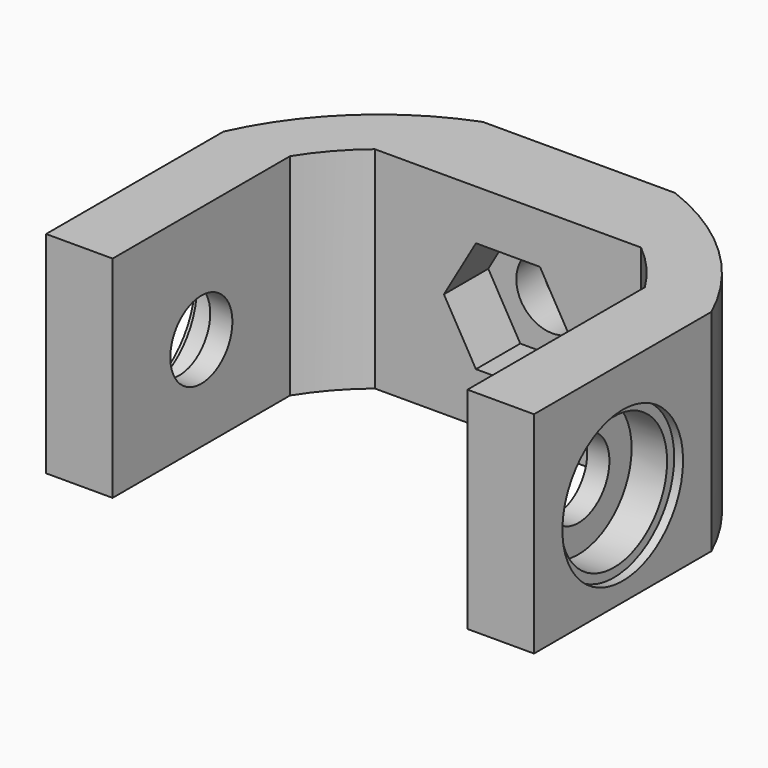
from build123d import *

# Parameters (mm, degrees)
F0_W      = 20
F0_H      = 19
F1_DEPTH  = 6
F2_R      = 6.8
F3_DEPTH  = 0.8
F4_R      = 6
F5_DEPTH  = 3.2
F6_R      = 3.5
F7_DEPTH  = 2
F11_DEPTH = 9.5
F12_W     = 24
F12_H     = 5
F13_DEPTH = 9.5
F15_DEPTH = 5
F16_R     = 3.25
F17_DEPTH = 25
F18_W     = 26
F18_H     = 5
F19_DEPTH = 12.5


with BuildPart() as f1:
    # F0 (on Right) → F1 (new body)
    with BuildSketch(Plane.YZ):
        Rectangle(F0_W, F0_H)
    extrude(amount=F1_DEPTH)

    # F2 (on face) → F3 (cut)
    with BuildSketch(Plane.YZ.offset(6)):
        with Locations((0, -1)):
            Circle(F2_R)
    extrude(amount=-F3_DEPTH, mode=Mode.SUBTRACT)

    # F4 (on face) → F5 (cut)
    with BuildSketch(Plane.YZ.offset(5.2)):
        with Locations((0, -1)):
            Circle(F4_R)
    extrude(amount=-F5_DEPTH, mode=Mode.SUBTRACT)

    # F6 (on face) → F7 (cut, through all)
    with BuildSketch(Plane.YZ.offset(2)):
        with Locations((0, -1)):
            Circle(F6_R)
    extrude(amount=-F7_DEPTH, mode=Mode.SUBTRACT)


with BuildPart() as f9_1:
    # F9: instance of F1
    add(f1.part.mirror(Plane.YZ.offset(-16)))


with BuildPart() as f1_1:
    add(f1.part)

    add(f9_1.part)  # F11 merges F9_1
    # F10 (on Top) → F11 (join, symmetric)
    with BuildSketch(Plane.XY):
        with BuildLine():
            ThreePointArc((-32, 10), (-16, 18.8679622641), (0, 10))
            Line((0, 10), (6, 10))
            ThreePointArc((6, 10), (-16, 24.1660919472), (-38, 10))
            Line((-38, 10), (-32, 10))
        make_face()
    extrude(amount=F11_DEPTH, both=True)

    # F12 (on Top) → F13 (join, symmetric)
    with BuildSketch(Plane.XY):
        with Locations((-16, 17.0602197786)):
            Rectangle(F12_W, F12_H)
    extrude(amount=F13_DEPTH, both=True)

    # F14 (on face) → F15 (cut)
    with BuildSketch(Plane.XZ.offset(-14.5602197786)):
        Polygon((-18.8867513459, -5), (-13.1132486541, -5), (-10.2264973081, 0), (-13.1132486541, 5), (-18.8867513459, 5), (-21.7735026919, 0), align=None)
    extrude(amount=-F15_DEPTH, mode=Mode.SUBTRACT)

    # F16 (on face) → F17 (cut)
    with BuildSketch(Plane.XZ.offset(-19.5602197786)):
        with Locations((-15.9966088831, 0)):
            Circle(F16_R)
    extrude(amount=-F17_DEPTH, mode=Mode.SUBTRACT)

    # F18 (on Top) → F19 (cut, symmetric)
    with BuildSketch(Plane.XY):
        with Locations((-16, 25.0602197786)):
            Rectangle(F18_W, F18_H)
    extrude(amount=F19_DEPTH, both=True, mode=Mode.SUBTRACT)


solid = f1_1.part
